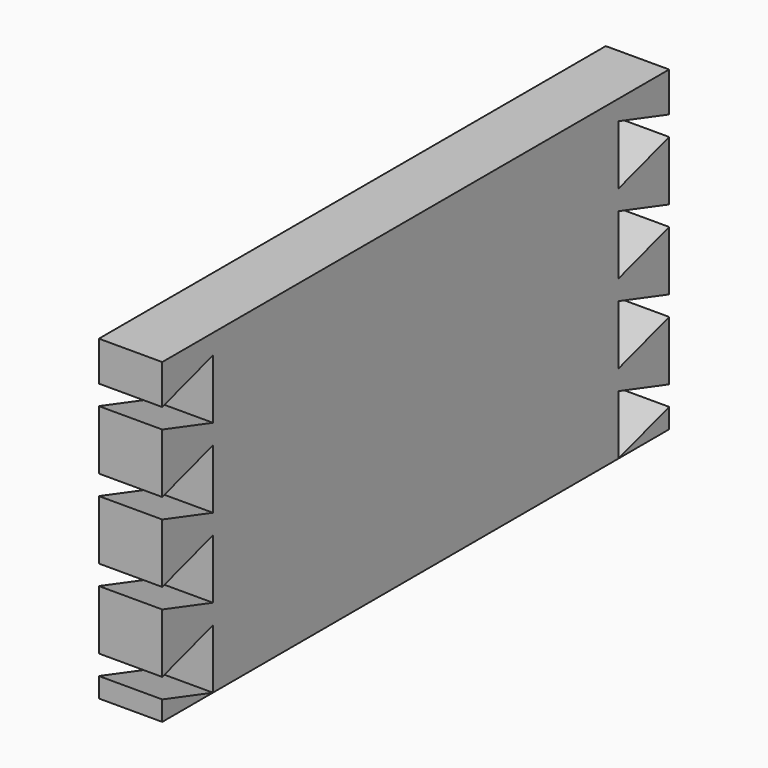
from build123d import *

# Parameters (mm, degrees)
PAD001_DEPTH     = 20
ARRAY001_Z_COUNT = 4
ARRAY001_Z_PITCH = 25
PAD_DEPTH        = 20
ARRAY_Z_COUNT    = 4
ARRAY_Z_PITCH    = 25
BOX008_W         = 20
BOX008_H         = 200
BOX008_DEPTH     = 100


with BuildPart() as array001:
    # Sketch001 → Pad001 (new body)
    with BuildSketch(Plane(origin=(0, 200, 10), x_dir=(0, 1, 0), z_dir=(1, 0, 0))):
        Polygon((0, 18.75), (0, 0), (-20, 6.25), (-20, 12.5), align=None)
    extrude(amount=PAD001_DEPTH)

    # Array001 Z: Array001 ×4


with BuildPart() as array001_1:
    add(array001.part)
    with Locations(*[(0, 0, i * ARRAY001_Z_PITCH) for i in range(1, ARRAY001_Z_COUNT)]):
        add(array001.part)


with BuildPart() as array001_2:
    # Array001 placement: moved
    add(array001_1.part.moved(Location((0, -180, 0))))


with BuildPart() as fusion:
    # Sketch → Pad (new body)
    with BuildSketch(Plane(origin=(0, 0, 10), x_dir=(0, 1, 0), z_dir=(1, 0, 0))):
        Polygon((0, 18.75), (0, 0), (20, 6.25), (20, 12.5), align=None)
    extrude(amount=PAD_DEPTH)

    # Array Z: Fusion ×4


with BuildPart() as fusion_1:
    add(fusion.part)
    with Locations(*[(0, 0, i * ARRAY_Z_PITCH) for i in range(1, ARRAY_Z_COUNT)]):
        add(fusion.part)


with BuildPart() as fusion_2:
    # Array placement: moved
    add(fusion_1.part.moved(Location((0, 180, 0))))

    # Fusion: union Array001
    add(array001_2.part)


with BuildPart() as left_cut:
    # Box008 → Box008 (new body)
    with BuildSketch(Plane.XY.offset(10)):
        with Locations((10, 100)):
            Rectangle(BOX008_W, BOX008_H)
    extrude(amount=BOX008_DEPTH)

    # Cut: cut Fusion
    add(fusion_2.part, mode=Mode.SUBTRACT)


solid = left_cut.part
